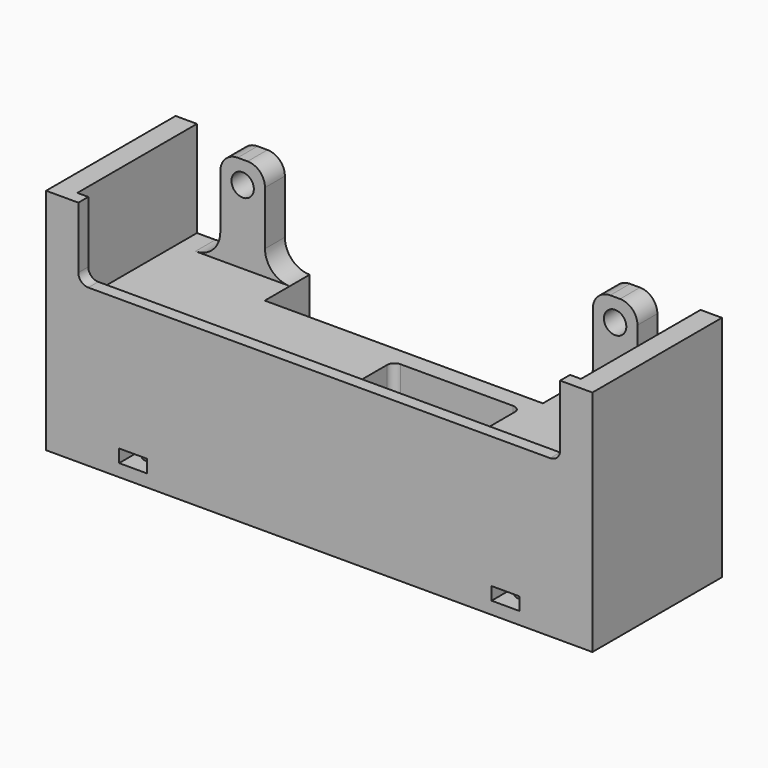
from build123d import *

# Parameters (mm, degrees)
SKETCH028_W     = 110
SKETCH028_H     = 32.6
PAD019_DEPTH    = 46
POCKET009_DEPTH = 19.35
SKETCH030_R     = 2.25
POCKET010_DEPTH = 5
FILLET008_R     = 3.5
SKETCH031_W     = 97
SKETCH031_H     = 2.5
POCKET011_DEPTH = 14.4
FILLET009_R     = 2
FILLET010_R     = 5
SKETCH032_W     = 25.7
SKETCH032_H     = 12.8
POCKET012_DEPTH = 11.6
SKETCH033_W     = 6.52
SKETCH033_H     = 12.8
SKETCH033_W_2   = 6.6
POCKET013_DEPTH = 22
SKETCH034_W     = 6.6
SKETCH034_H     = 15.25
SKETCH034_W_2   = 6.52
POCKET014_DEPTH = 17.55
FILLET011_R     = 1.5
SKETCH035_R     = 1.6
POCKET015_DEPTH = 5
SKETCH036_W     = 5.6
SKETCH036_H     = 2.6
POCKET016_DEPTH = 8.3
SKETCH037_W     = 5.6
SKETCH037_H     = 2.6
POCKET017_DEPTH = 8.3
PRISM_DEPTH     = 56


with BuildPart() as part:
    # Sketch028 → Pad019 (new body)
    with BuildSketch(Plane.XY):
        Rectangle(SKETCH028_W, SKETCH028_H)
    extrude(amount=PAD019_DEPTH)

    # Sketch029 (on Face6 of Pad019) → Pocket009 (cut)
    with BuildSketch(Plane.XY.offset(46)):
        Polygon((-50.7, 16.3), (-42, 16.3), (-42, 11.3), (-33, 11.3), (-33, 16.3), (33, 16.3), (33, 11.3), (42, 11.3), (42, 16.3), (50.7, 16.3), (50.7, -13.8), (-50.7, -13.8), align=None)
    extrude(amount=-POCKET009_DEPTH, mode=Mode.SUBTRACT)

    # Sketch030 (on Face1 of Pocket009) → Pocket010 (cut)
    with BuildSketch(Plane(origin=(0, 16.3, 0), x_dir=(-1, 0, 0), z_dir=(0, 1, 0))):
        with Locations((-37.5, 41.5)):
            Circle(SKETCH030_R)
        with Locations((37.5, 41.5)):
            Circle(SKETCH030_R)
    extrude(amount=-POCKET010_DEPTH, mode=Mode.SUBTRACT)

    # Fillet008
    fillet008_edges = [part.edges().sort_by_distance(p)[0] for p in [
        (33, 13.8, 46),
        (-33, 13.8, 46),
        (-42, 13.8, 46),
        (42, 13.8, 46),
    ]]
    fillet(fillet008_edges, radius=FILLET008_R)

    # Sketch031 (on Face8 of Fillet008) → Pocket011 (cut)
    with BuildSketch(Plane.XY.offset(46)):
        with Locations((0, -15.05)):
            Rectangle(SKETCH031_W, SKETCH031_H)
    extrude(amount=-POCKET011_DEPTH, mode=Mode.SUBTRACT)

    # Fillet009
    fillet009_edges = [part.edges().sort_by_distance(p)[0] for p in [
        (48.5, -15.05, 31.6),
        (-48.5, -15.05, 31.6),
    ]]
    fillet(fillet009_edges, radius=FILLET009_R)

    # Fillet010
    fillet010_edges = [part.edges().sort_by_distance(p)[0] for p in [
        (42, 13.8, 26.65),
        (-33, 13.8, 26.65),
        (33, 13.8, 26.65),
        (-42, 13.8, 26.65),
    ]]
    fillet(fillet010_edges, radius=FILLET010_R)

    # Sketch032 (on Face1 of Fillet010) → Pocket012 (cut)
    with BuildSketch(Plane.XY.offset(26.65)):
        with Locations((13.55, -5)):
            Rectangle(SKETCH032_W, SKETCH032_H)
    extrude(amount=-POCKET012_DEPTH, mode=Mode.SUBTRACT)

    # Sketch033 (on Face38 of Pocket012) → Pocket013 (cut)
    with BuildSketch(Plane.XY.offset(15.05)):
        with Locations((5.51, -5)):
            Rectangle(SKETCH033_W, SKETCH033_H)
        with Locations((21.58, -5)):
            Rectangle(SKETCH033_W_2, SKETCH033_H)
    extrude(amount=-POCKET013_DEPTH, mode=Mode.SUBTRACT)

    # Sketch034 (on Face2 of Pocket013) → Pocket014 (cut)
    with BuildSketch(Plane(origin=(0, 16.3, 0), x_dir=(-1, 0, 0), z_dir=(0, 1, 0))):
        with Locations((-21.58, 7.625)):
            Rectangle(SKETCH034_W, SKETCH034_H)
        with Locations((-5.51, 7.625)):
            Rectangle(SKETCH034_W_2, SKETCH034_H)
    extrude(amount=-POCKET014_DEPTH, mode=Mode.SUBTRACT)

    # Fillet011
    fillet011_edges = [part.edges().sort_by_distance(p)[0] for p in [
        (0.7, 1.4, 20.85),
        (26.4, -11.4, 20.85),
        (0.7, -11.4, 20.85),
        (26.4, 1.4, 20.85),
        (24.88, 16.3, 7.625),
        (18.28, 16.3, 7.625),
        (8.77, 16.3, 7.625),
        (2.25, 16.3, 7.625),
    ]]
    fillet(fillet011_edges, radius=FILLET011_R)

    # Sketch035 (on Face31 of Fillet011) → Pocket015 (cut)
    with BuildSketch(Plane(origin=(0, 0, 0), x_dir=(1, 0, 0), z_dir=(0, 0, -1))):
        with Locations((-37.5, 11.5)):
            Circle(SKETCH035_R)
        with Locations((-37.5, -11.5)):
            Circle(SKETCH035_R)
        with Locations((37.5, -11.5)):
            Circle(SKETCH035_R)
        with Locations((37.5, 11.5)):
            Circle(SKETCH035_R)
    extrude(amount=-POCKET015_DEPTH, mode=Mode.SUBTRACT)

    # Sketch036 (on Face10 of Pocket015) → Pocket016 (cut)
    with BuildSketch(Plane(origin=(0, 16.3, 0), x_dir=(-1, 0, 0), z_dir=(0, 1, 0))):
        with Locations((-37.5, 3.8)):
            Rectangle(SKETCH036_W, SKETCH036_H)
        with Locations((37.5, 3.8)):
            Rectangle(SKETCH036_W, SKETCH036_H)
    extrude(amount=-POCKET016_DEPTH, mode=Mode.SUBTRACT)

    # Sketch037 (on Face65 of Pocket015) → Pocket017 (cut)
    with BuildSketch(Plane.XZ.offset(16.3)):
        with Locations((-37.5, 3.8)):
            Rectangle(SKETCH037_W, SKETCH037_H)
        with Locations((37.5, 3.8)):
            Rectangle(SKETCH037_W, SKETCH037_H)
    extrude(amount=-POCKET017_DEPTH, mode=Mode.SUBTRACT)

    # Prism → Prism (cut)
    with BuildSketch(Plane(origin=(-28, 16.3, 26.65), x_dir=(0, 0.707107, 0.707107), z_dir=(1, 0, 0))):
        Polygon((16, 0), (-8, 13.856406), (-8, -13.856406), align=None)
    extrude(amount=PRISM_DEPTH, mode=Mode.SUBTRACT)


solid = part.part
